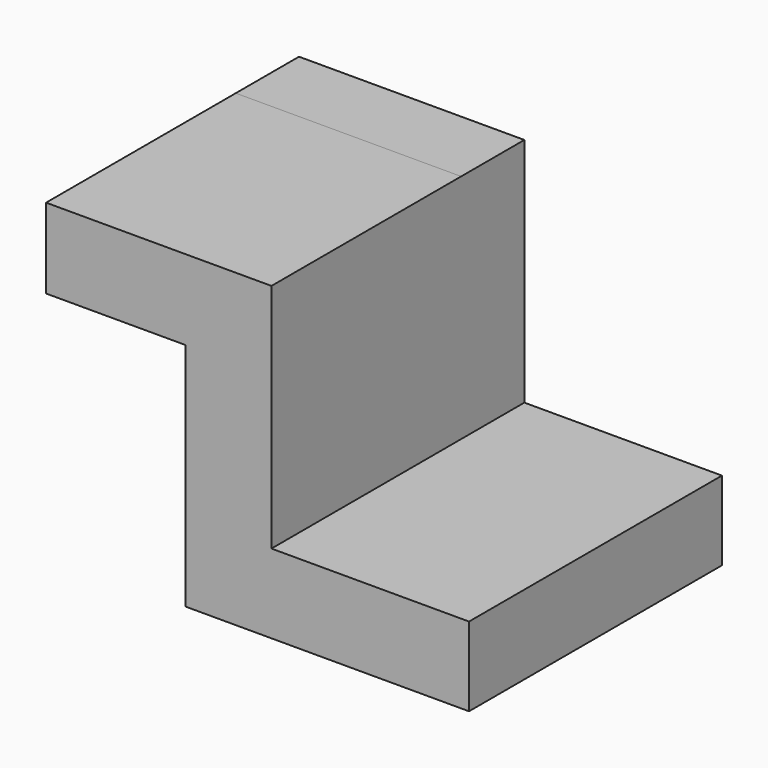
from build123d import *

# Parameters (mm, degrees)
F1_DEPTH = 25.4
F2_DEPTH = 76.2


with BuildPart() as f1:
    # F0 (on Front) → F1 (new body)
    with BuildSketch(Plane.XZ):
        Polygon((5.282099, 49.704505), (-67.154945, 49.704505), (-67.154945, 23.990924), (-22.312967, 23.990924), (-22.312967, -50.014021), (68.782099, -50.014021), (68.782099, -24.614021), (5.282099, -24.614021), align=None)
    extrude(amount=F1_DEPTH)

    # F1_face (on face) → F2 (join)
    with BuildSketch(Plane(origin=(-2.769924, -25.4, -3.28443), x_dir=(1, 0, 0), z_dir=(0, -1, 0))):
        Polygon((71.552023, -46.729591), (71.552023, -21.329591), (8.052023, -21.329591), (8.052023, 52.988936), (-64.385021, 52.988936), (-64.385021, 27.275354), (-19.543043, 27.275354), (-19.543043, -46.729591), align=None)
    extrude(amount=F2_DEPTH)


solid = f1.part
